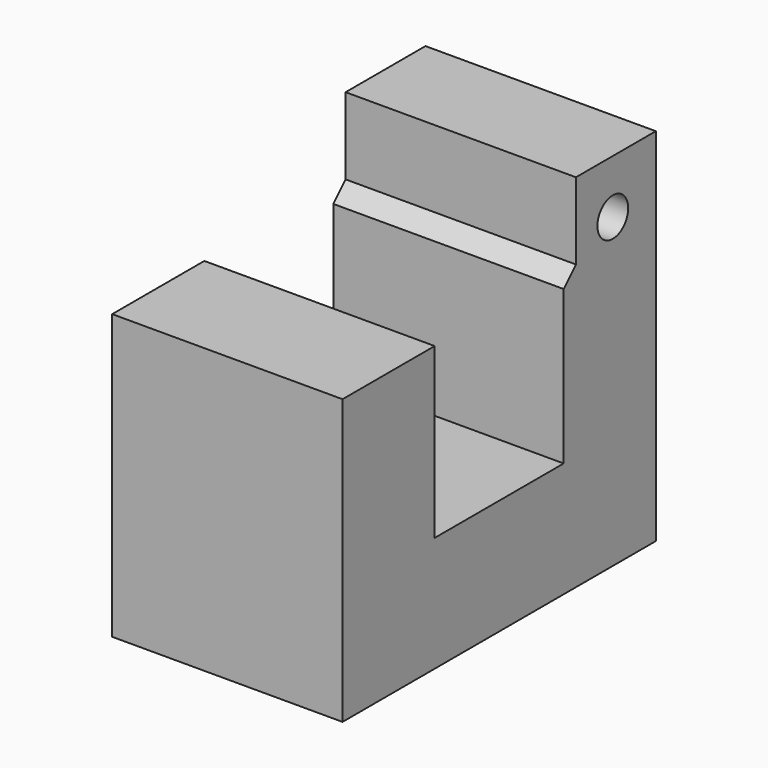
from build123d import *

# Parameters (mm, degrees)
CYLINDER_R     = 2.5
CYLINDER_DEPTH = 30
BOX002_W       = 30
BOX002_H       = 13
BOX002_DEPTH   = 10
BOX_W          = 30
BOX_H          = 21
BOX_DEPTH      = 22
BOX001_W       = 30
BOX001_H       = 51
BOX001_DEPTH   = 37
CHAMFER_SIZE   = 2


with BuildPart() as sphere001:
    # Sphere001 → Sphere001 (revolve)
    with BuildSketch(Plane(origin=(20, -0.25, 15), x_dir=(1, 0, 0), z_dir=(0, -1, 0))):
        with BuildLine():
            ThreePointArc((0, -1), (1, 0), (0, 1))
            Line((0, 1), (0, -1))
        make_face()
    revolve(axis=Axis((20, -0.25, 15), (0, 0, 1)))


with BuildPart() as sphere:
    # Sphere → Sphere (revolve)
    with BuildSketch(Plane(origin=(10, -0.25, 15), x_dir=(1, 0, 0), z_dir=(0, -1, 0))):
        with BuildLine():
            ThreePointArc((0, -1), (1, 0), (0, 1))
            Line((0, 1), (0, -1))
        make_face()
    revolve(axis=Axis((10, -0.25, 15), (0, 0, 1)))


with BuildPart() as cylinder:
    # Cylinder → Cylinder (new body)
    with BuildSketch(Plane(origin=(0, 29, 25), x_dir=(0, 0, -1), z_dir=(1, 0, 0))):
        Circle(CYLINDER_R)
    extrude(amount=CYLINDER_DEPTH)


with BuildPart() as cut001:
    # Box002 → Box002 (new body)
    with BuildSketch(Plane(origin=(0, 23, 22), x_dir=(1, 0, 0), z_dir=(0, 0, 1))):
        with Locations((15, 6.5)):
            Rectangle(BOX002_W, BOX002_H)
    extrude(amount=BOX002_DEPTH)

    # Cut001: cut Cylinder
    add(cylinder.part, mode=Mode.SUBTRACT)


with BuildPart() as cube:
    # Box → Box (new body)
    with BuildSketch(Plane.XY):
        with Locations((15, 10.5)):
            Rectangle(BOX_W, BOX_H)
    extrude(amount=BOX_DEPTH)


with BuildPart() as fusion001:
    # Box001 → Box001 (new body)
    with BuildSketch(Plane(origin=(0, -15, -15), x_dir=(1, 0, 0), z_dir=(0, 0, 1))):
        with Locations((15, 25.5)):
            Rectangle(BOX001_W, BOX001_H)
    extrude(amount=BOX001_DEPTH)

    # Cut: cut Cube
    add(cube.part, mode=Mode.SUBTRACT)

    # Chamfer
    chamfer_edges = [fusion001.edges().sort_by_distance(p)[0] for p in [
        (15, 21, 22),
    ]]
    chamfer(chamfer_edges, length=CHAMFER_SIZE)

    # Fusion: union Cut001
    add(cut001.part)

    # Fusion001: union Sphere001, Sphere
    add(sphere001.part)
    add(sphere.part)


solid = fusion001.part
